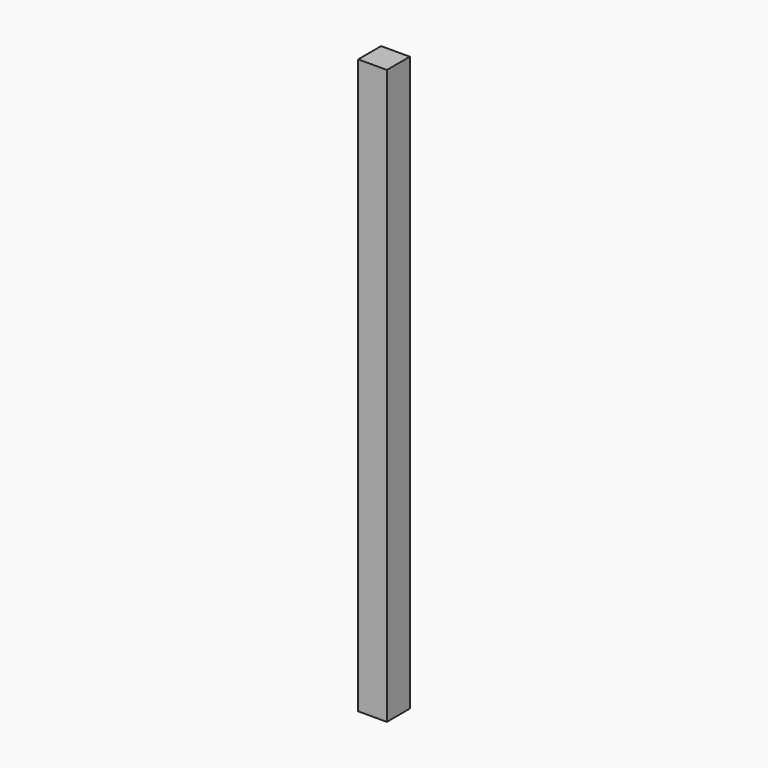
from build123d import *

# Parameters (mm, degrees)
SKETCH_W  = 10
SKETCH_H  = 10
PAD_DEPTH = 200


with BuildPart() as part:
    # Sketch → Pad (new body)
    with BuildSketch(Plane.XY):
        Rectangle(SKETCH_W, SKETCH_H)
    extrude(amount=PAD_DEPTH)


solid = part.part
